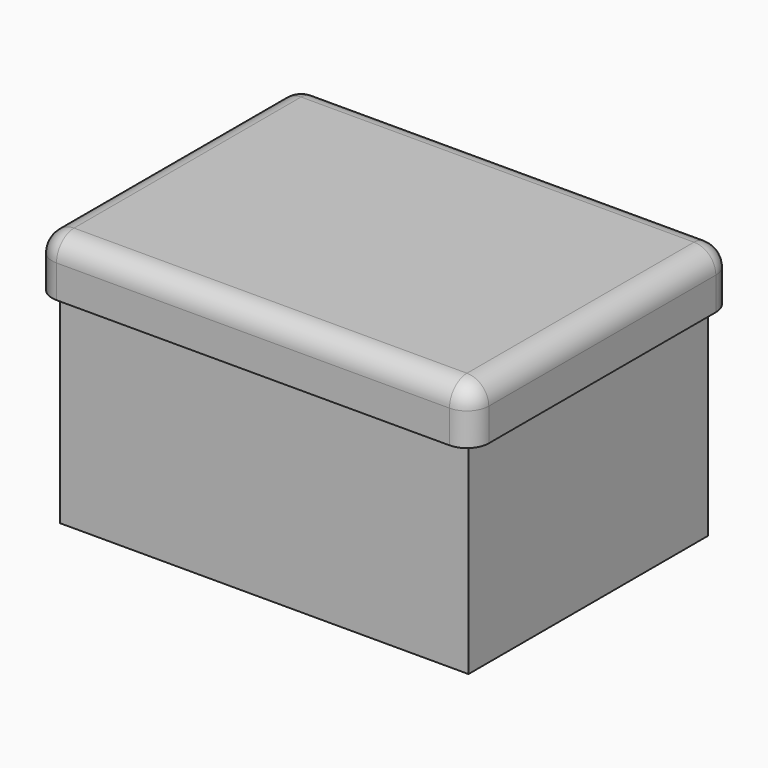
from build123d import *

# Parameters (mm, degrees)
F0_W     = 101.6
F0_H     = 76.2
F1_DEPTH = 12.7
F2_R     = 5.08
F3_W     = 94.996
F3_H     = 69.596
F3_W_2   = 88.646
F3_H_2   = 63.246
F4_DEPTH = 47.625


with BuildPart() as f1:
    # F0 (on Top) → F1 (new body)
    with BuildSketch(Plane.XY):
        Rectangle(F0_W, F0_H)
    extrude(amount=F1_DEPTH)

    # F2
    f2_edges = [f1.edges().sort_by_distance(p)[0] for p in [
        (0, -38.1, 12.7),
        (-50.8, 0, 12.7),
        (0, 38.1, 12.7),
        (50.8, 0, 12.7),
        (50.8, -38.1, 6.35),
        (50.8, 38.1, 6.35),
        (-50.8, 38.1, 6.35),
        (-50.8, -38.1, 6.35),
    ]]
    fillet(f2_edges, radius=F2_R)

    # F3 (on face) → F4 (join)
    with BuildSketch(Plane(origin=(0, 0, 0), x_dir=(1, 0, 0), z_dir=(0, 0, -1))):
        Rectangle(F3_W, F3_H)
        Rectangle(F3_W_2, F3_H_2, mode=Mode.SUBTRACT)
    extrude(amount=F4_DEPTH)


solid = f1.part
